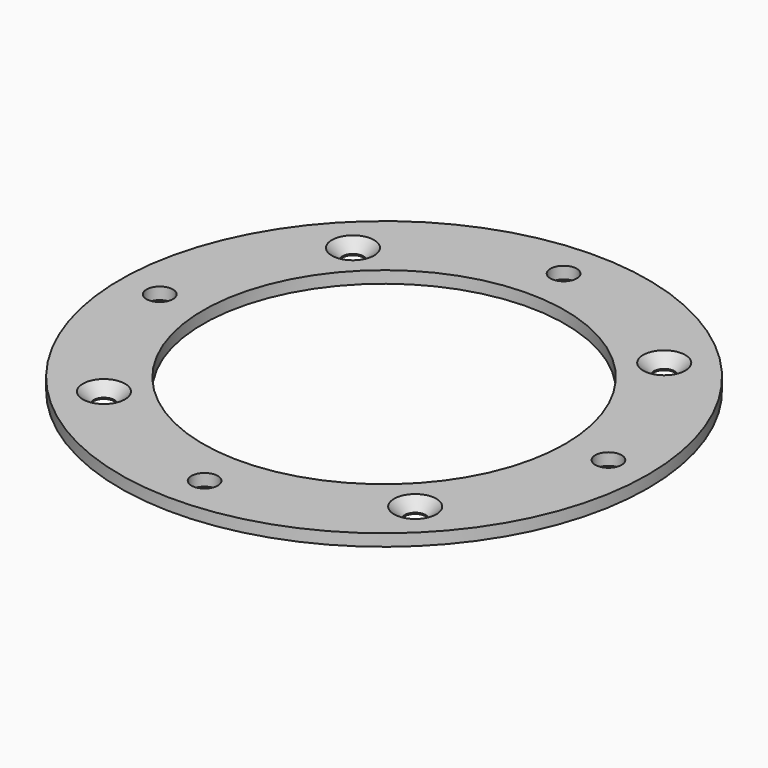
from build123d import *

# Parameters (mm, degrees)
F0_R           = 70
F0_R_2         = 3.5
F0_R_3         = 48
F1_DEPTH       = 1.5875
F3_D           = 5.5
F3_DEPTH       = 15
F3_CSINK_D     = 11.2
F3_CSINK_ANGLE = 90
F3_TIP         = 1.6523667023


with BuildPart() as f1:
    # F0 (on Top) → F1 (new body, symmetric)
    with BuildSketch(Plane.XY):
        Circle(F0_R)
        with Locations((0, -59.5)):
            Circle(F0_R_2, mode=Mode.SUBTRACT)
        with Locations((-59.5, 0)):
            Circle(F0_R_2, mode=Mode.SUBTRACT)
        Circle(F0_R_3, mode=Mode.SUBTRACT)
        with Locations((59.5, 0)):
            Circle(F0_R_2, mode=Mode.SUBTRACT)
        with Locations((0, 59.5)):
            Circle(F0_R_2, mode=Mode.SUBTRACT)
    extrude(amount=F1_DEPTH, both=True)

    # F3
    with Locations(Plane.XY.offset(1.5875)):
        with Locations((-41.275, 41.275), (41.275, 41.275), (41.275, -41.275), (-41.275, -41.275)):
            CounterSinkHole(F3_D / 2, F3_CSINK_D / 2, depth=F3_DEPTH, counter_sink_angle=F3_CSINK_ANGLE)
            with Locations((0, 0, -(F3_DEPTH + F3_TIP / 2))):  # 118° drill point
                Cone(0, F3_D / 2, F3_TIP, mode=Mode.SUBTRACT)


solid = f1.part
